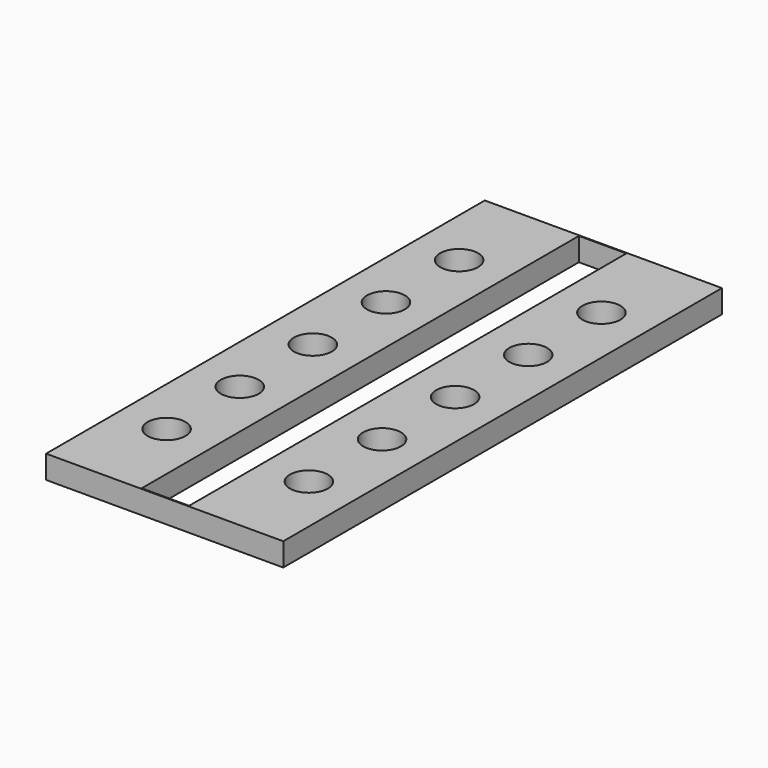
from build123d import *

# Parameters (mm, degrees)
F0_R     = 2.54
F0_W     = 6.35
F0_H     = 73.152
F1_DEPTH = 1.5494


with BuildPart() as f1:
    # F0 (on Top) → F1 (new body, symmetric)
    with BuildSketch(Plane.XY):
        Polygon((-3.175, 36.703), (-15.875, 36.703), (-15.875, -36.703), (-3.244379, -36.703), (-3.175, -36.703), (3.105621, -36.703), (15.875, -36.703), (15.875, 36.703), (3.175, 36.703), (-3.105621, 36.703), align=None)
        with Locations((-9.525, -24.47544)):
            Circle(F0_R, mode=Mode.SUBTRACT)
        with Locations((-9.525, -12.23264)):
            Circle(F0_R, mode=Mode.SUBTRACT)
        with Locations((9.525, -24.47544)):
            Circle(F0_R, mode=Mode.SUBTRACT)
        with Locations((9.525, -12.23264)):
            Circle(F0_R, mode=Mode.SUBTRACT)
        with Locations((-9.525, 0)):
            Circle(F0_R, mode=Mode.SUBTRACT)
        with Locations((-9.525, 12.23264)):
            Circle(F0_R, mode=Mode.SUBTRACT)
        with Locations((-9.525, 24.47544)):
            Circle(F0_R, mode=Mode.SUBTRACT)
        Rectangle(F0_W, F0_H, mode=Mode.SUBTRACT)
        with Locations((9.525, 0)):
            Circle(F0_R, mode=Mode.SUBTRACT)
        with Locations((9.525, 12.23264)):
            Circle(F0_R, mode=Mode.SUBTRACT)
        with Locations((9.525, 24.47544)):
            Circle(F0_R, mode=Mode.SUBTRACT)
    extrude(amount=F1_DEPTH, both=True)


solid = f1.part
